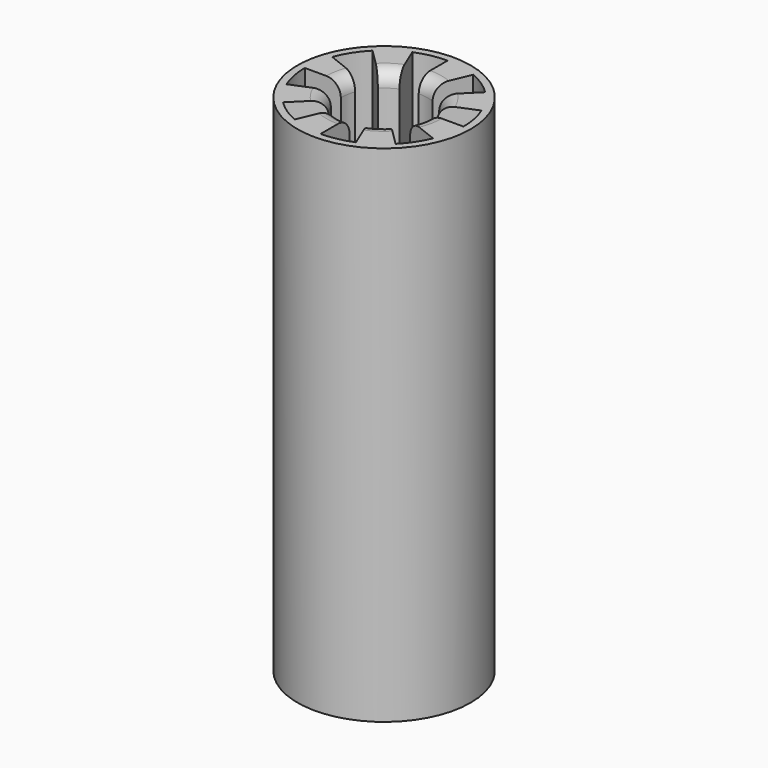
from build123d import *

# Parameters (mm, degrees)
F0_R     = 6
F1_DEPTH = 35
F2_R     = 1


with BuildPart() as f1:
    # F0 (on Top) → F1 (new body)
    with BuildSketch(Plane.XY):
        Circle(F0_R)
        with BuildLine():
            ThreePointArc((5.0922802348, 2.0781438859), (5.3971076185, 1.0588811805), (5.5, 0))
            ThreePointArc((5.5, 0), (5.3937648374, -1.075779196), (5.0791633169, -2.11))
            ThreePointArc((5.0791633169, -2.11), (4.575797927, -3.0515689951), (3.9, -3.8781438859))
            ThreePointArc((3.9, -3.8781438859), (3.0644146127, -4.5672051718), (2.11, -5.0791633169))
            ThreePointArc((2.11, -5.0791633169), (1.075779196, -5.3937648374), (0, -5.5))
            ThreePointArc((0, -5.5), (-1.0985542931, -5.3891723358), (-2.1528357839, -5.0611558055))
            ThreePointArc((-2.1528357839, -5.0611558055), (-3.0836803591, -4.5542195207), (-3.9, -3.8781438859))
            ThreePointArc((-3.9, -3.8781438859), (-4.575797927, -3.0515689951), (-5.0791633169, -2.11))
            ThreePointArc((-5.0791633169, -2.11), (-5.3937648374, -1.075779196), (-5.5, 0))
            ThreePointArc((-5.5, 0), (-5.4110795057, 0.9849967425), (-5.1471932427, 1.9381438859))
            ThreePointArc((-5.1471932427, 1.9381438859), (-4.6264269574, 2.9742517727), (-3.9, 3.8781438859))
            ThreePointArc((-3.9, 3.8781438859), (-3.0644146127, 4.5672051718), (-2.11, 5.0791633169))
            ThreePointArc((-2.11, 5.0791633169), (-1.075779196, 5.3937648374), (0, 5.5))
            ThreePointArc((0, 5.5), (1.075779196, 5.3937648374), (2.11, 5.0791633169))
            ThreePointArc((2.11, 5.0791633169), (3.0644146127, 4.5672051718), (3.9, 3.8781438859))
            ThreePointArc((3.9, 3.8781438859), (4.5853326984, 3.0372230812), (5.0922802348, 2.0781438859))
        make_face(mode=Mode.SUBTRACT)
        with BuildLine():
            Line((-5.5, 0), (-3, 0))
            ThreePointArc((-3, 0), (-2.9551881332, 0.5165879378), (-2.8220912684, 1.0177430289))
            Line((-2.8220912684, 1.0177430289), (-5.1471932427, 1.9381438859))
            ThreePointArc((-5.1471932427, 1.9381438859), (-5.4110795057, 0.9849967425), (-5.5, 0))
        make_face()
        with BuildLine():
            Line((-3.9, 3.8781438859), (-2.1272727273, 2.1153512105))
            ThreePointArc((-2.1272727273, 2.1153512105), (-1.6714988796, 2.491202821), (-1.1509090909, 2.7704527183))
            Line((-1.1509090909, 2.7704527183), (-2.11, 5.0791633169))
            ThreePointArc((-2.11, 5.0791633169), (-3.0644146127, 4.5672051718), (-3.9, 3.8781438859))
        make_face()
        with BuildLine():
            ThreePointArc((0, 3), (0.5816093108, 2.9430818218), (1.1411491933, 2.7744870731))
            Line((1.1411491933, 2.7744870731), (2.11, 5.0791633169))
            ThreePointArc((2.11, 5.0791633169), (1.075779196, 5.3937648374), (0, 5.5))
            Line((0, 5.5), (0, 3))
        make_face()
        with BuildLine():
            ThreePointArc((2.1272727273, 2.1153512105), (2.5032503369, 1.6534018721), (2.7805563951, 1.1262797758))
            Line((2.7805563951, 1.1262797758), (5.0922802348, 2.0781438859))
            ThreePointArc((5.0922802348, 2.0781438859), (4.5853326984, 3.0372230812), (3.9, 3.8781438859))
            Line((3.9, 3.8781438859), (2.1272727273, 2.1153512105))
        make_face()
        with BuildLine():
            Line((5.5, 0), (3, 0))
            ThreePointArc((3, 0), (2.9378720214, -0.6073779598), (2.7540613426, -1.189599143))
            Line((2.7540613426, -1.189599143), (5.0791633169, -2.11))
            ThreePointArc((5.0791633169, -2.11), (5.3937648374, -1.075779196), (5.5, 0))
        make_face()
        with BuildLine():
            Line((3.9, -3.8781438859), (2.1272727273, -2.1153512105))
            ThreePointArc((2.1272727273, -2.1153512105), (1.6714988796, -2.491202821), (1.1509090909, -2.7704527183))
            Line((1.1509090909, -2.7704527183), (2.11, -5.0791633169))
            ThreePointArc((2.11, -5.0791633169), (3.0644146127, -4.5672051718), (3.9, -3.8781438859))
        make_face()
        with BuildLine():
            Line((0, -5.5), (0, -3))
            ThreePointArc((0, -3), (-0.6043845278, -2.938489296), (-1.1839849771, -2.7564795617))
            Line((-1.1839849771, -2.7564795617), (-2.1528357839, -5.0611558055))
            ThreePointArc((-2.1528357839, -5.0611558055), (-1.0985542931, -5.3891723358), (0, -5.5))
        make_face()
        with BuildLine():
            Line((-3.9, -3.8781438859), (-2.1272727273, -2.1153512105))
            ThreePointArc((-2.1272727273, -2.1153512105), (-2.4937155379, -1.6677478275), (-2.7674394773, -1.1581358899))
            Line((-2.7674394773, -1.1581358899), (-5.0791633169, -2.11))
            ThreePointArc((-5.0791633169, -2.11), (-4.575797927, -3.0515689951), (-3.9, -3.8781438859))
        make_face()
    extrude(amount=F1_DEPTH)

    # F2
    f2_edges = [f1.edges().sort_by_distance(p)[0] for p in [
        (-1.671499, 2.491203, 35),
        (0.581609, 2.943082, 35),
        (2.50325, 1.653402, 35),
        (2.937872, -0.607378, 35),
        (1.671499, -2.491203, 35),
        (-0.604385, -2.938489, 35),
        (-2.493716, -1.667748, 35),
        (-2.955188, 0.516588, 35),
        (-2.493716, -1.667748, 0),
        (-0.604385, -2.938489, 0),
        (1.671499, -2.491203, 0),
        (2.937872, -0.607378, 0),
        (2.50325, 1.653402, 0),
        (0.581609, 2.943082, 0),
        (-1.671499, 2.491203, 0),
        (-2.955188, 0.516588, 0),
    ]]
    fillet(f2_edges, radius=F2_R)


solid = f1.part
